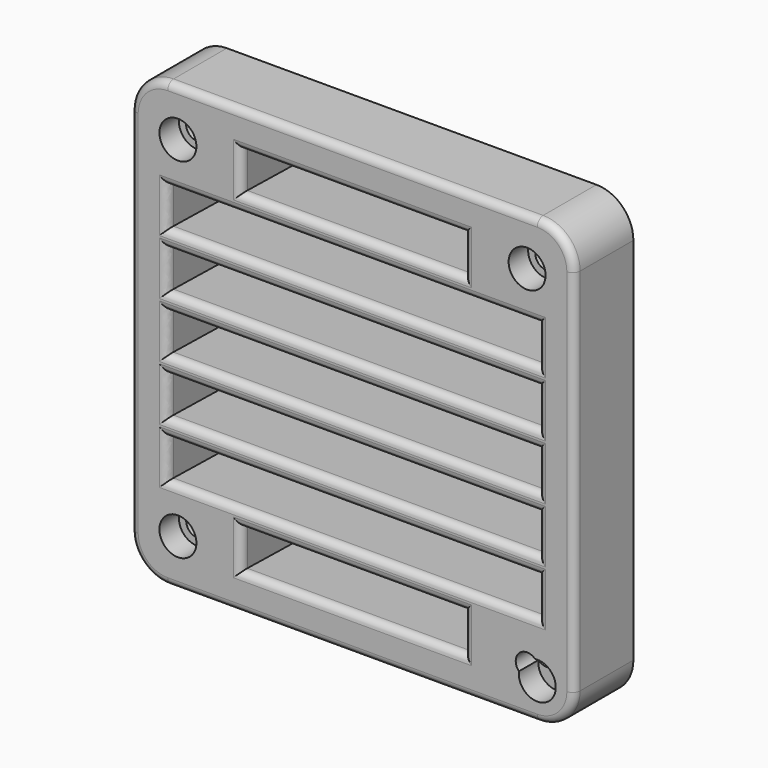
from build123d import *

# Parameters (mm, degrees)
F1_DEPTH = 12.7
F2_W     = 63.5
F2_H     = 6.35
F2_W_2   = 38.1
F3_DEPTH = 12.701
F3_TAPER = -6
F4_R     = 1.27
F5_R     = 1.9558
F5_R_2   = 1.9263110229
F6_DEPTH = 12.7010001
F7_R     = 3.175
F8_DEPTH = 4.191


with BuildPart() as f1:
    # F0 (on Front) → F1 (new body)
    with BuildSketch(Plane.XZ):
        with BuildLine():
            ThreePointArc((38.1, 31.75), (36.2401280605, 36.2401280605), (31.75, 38.1))
            Line((31.75, 38.1), (-31.75, 38.1))
            ThreePointArc((-31.75, 38.1), (-36.2401280605, 36.2401280605), (-38.1, 31.75))
            Line((-38.1, 31.75), (-38.1, -31.75))
            ThreePointArc((-38.1, -31.75), (-36.2401280605, -36.2401280605), (-31.75, -38.1))
            Line((-31.75, -38.1), (31.75, -38.1))
            ThreePointArc((31.75, -38.1), (36.2401280605, -36.2401280605), (38.1, -31.75))
            Line((38.1, -31.75), (38.1, 31.75))
        make_face()
    extrude(amount=F1_DEPTH)

    # F2 (on face) → F3 (cut, through all)
    with BuildSketch(Plane.XZ.offset(12.7)):
        with Locations((0, -19.05)):
            Rectangle(F2_W, F2_H)
        with Locations((0, -9.525)):
            Rectangle(F2_W, F2_H)
        Rectangle(F2_W, F2_H)
        with Locations((0, 9.525)):
            Rectangle(F2_W, F2_H)
        with Locations((0, 19.05)):
            Rectangle(F2_W, F2_H)
        with Locations((0, 28.575)):
            Rectangle(F2_W_2, F2_H)
        with Locations((0, -28.575)):
            Rectangle(F2_W_2, F2_H)
    extrude(amount=-F3_DEPTH, taper=F3_TAPER, mode=Mode.SUBTRACT)

    # F4
    f4_edges = [f1.edges().sort_by_distance(p)[0] for p in [
        (36.240128, -12.7, 36.240128),
        (38.1, -12.7, 0),
        (0, -12.7, 38.1),
        (36.240128, -12.7, -36.240128),
        (-36.240128, -12.7, 36.240128),
        (0, -12.7, -38.1),
        (-38.1, -12.7, 0),
        (-36.240128, -12.7, -36.240128),
        (0, -12.7, -25.4),
        (-19.05, -12.7, -28.575),
        (0, -12.7, -31.75),
        (19.05, -12.7, -28.575),
        (-31.75, -12.7, -19.05),
        (0, -12.7, -22.225),
        (31.75, -12.7, -19.05),
        (0, -12.7, -15.875),
        (0, -12.7, -12.7),
        (31.75, -12.7, -9.525),
        (0, -12.7, -6.35),
        (-31.75, -12.7, -9.525),
        (0, -12.7, -3.175),
        (31.75, -12.7, 0),
        (0, -12.7, 3.175),
        (-31.75, -12.7, 0),
        (0, -12.7, 6.35),
        (31.75, -12.7, 9.525),
        (0, -12.7, 12.7),
        (-31.75, -12.7, 9.525),
        (0, -12.7, 15.875),
        (31.75, -12.7, 19.05),
        (0, -12.7, 22.225),
        (-31.75, -12.7, 19.05),
        (0, -12.7, 31.75),
        (-19.05, -12.7, 28.575),
        (0, -12.7, 25.4),
        (19.05, -12.7, 28.575),
    ]]
    fillet(f4_edges, radius=F4_R)

    # F5 (on face) → F6 (cut, through all)
    with BuildSketch(Plane.XZ.offset(12.7)):
        with Locations((-30, 30)):
            Circle(F5_R)
        with Locations((30, 30)):
            Circle(F5_R)
        with Locations((-30, -30)):
            Circle(F5_R_2)
        with Locations((30, -30)):
            Circle(F5_R)
    extrude(amount=-F6_DEPTH, mode=Mode.SUBTRACT)

    # F7 (on face) → F8 (cut)
    with BuildSketch(Plane.XZ.offset(12.7)):
        with Locations((-30, 30)):
            Circle(F7_R)
        with Locations((30, 30)):
            Circle(F7_R)
        with Locations((31.75, -31.75)):
            Circle(F7_R)
        with Locations((-30, -30)):
            Circle(F7_R)
    extrude(amount=-F8_DEPTH, mode=Mode.SUBTRACT)


solid = f1.part
